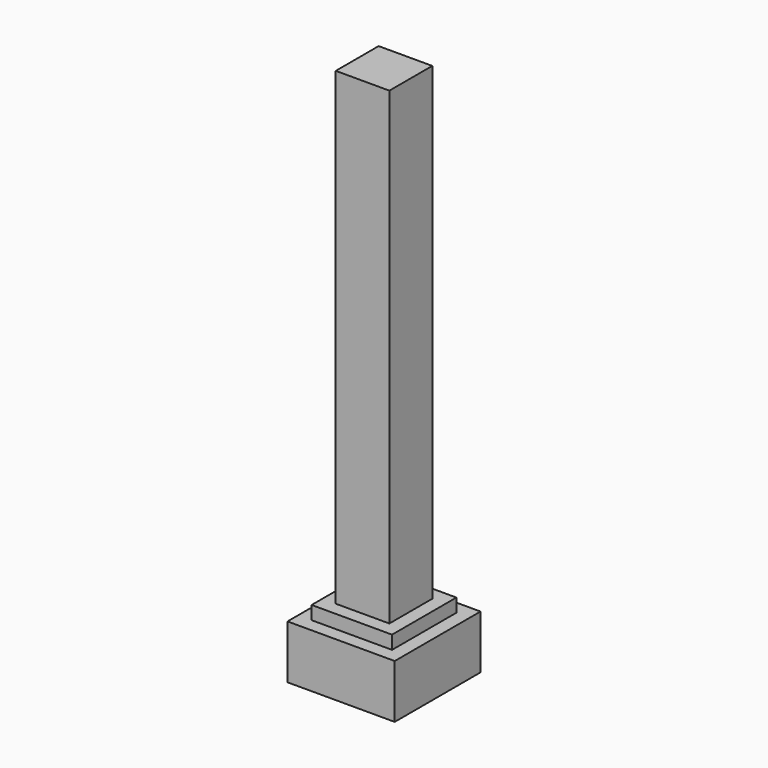
from build123d import *

# Parameters (mm, degrees)
F0_W     = 101.6
F0_H     = 101.6
F1_DEPTH = 1016
F4_W     = 152.4
F4_H     = 152.4
F5_DEPTH = 127
F6_W     = 203.2
F6_H     = 203.2
F7_DEPTH = 101.6


with BuildPart() as f1:
    # F0 (on Top) → F1 (new body)
    with BuildSketch(Plane.XY):
        with Locations((50.8, -50.8)):
            Rectangle(F0_W, F0_H)
    extrude(amount=F1_DEPTH)

    # F4 (on Top) → F5 (join)
    with BuildSketch(Plane.XY):
        with Locations((50.8, -50.8)):
            Rectangle(F4_W, F4_H)
    extrude(amount=F5_DEPTH)

    # F6 (on Top) → F7 (join)
    with BuildSketch(Plane.XY):
        with Locations((50.8, -50.8)):
            Rectangle(F6_W, F6_H)
    extrude(amount=F7_DEPTH)


solid = f1.part
